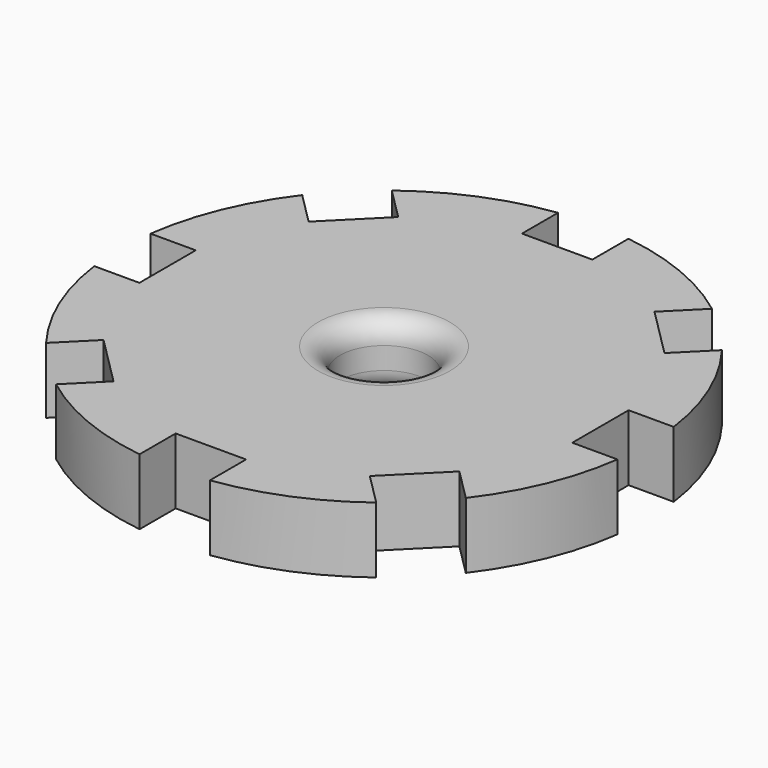
from build123d import *

# Parameters (mm, degrees)
SKETCH001_R        = 12
PAD001_DEPTH       = 3
SKETCH002_W        = 2.57
SKETCH002_H        = 3.2
POCKET_DEPTH       = 5
POLARPATTERN_COUNT = 8
SKETCH003_R        = 2
POCKET001_DEPTH    = 6
FILLET_R           = 1
FILLET002_R        = 1


with BuildPart() as part:
    # Sketch001 → Pad001 (new body)
    with BuildSketch(Plane.XY.offset(28.5)):
        Circle(SKETCH001_R)
    extrude(amount=PAD001_DEPTH)

    # Sketch002 (on Face3 of Pad001) → Pocket (cut)
    with BuildSketch(Plane.XY.offset(31.5)):
        with Locations((11.125, 0)):
            Rectangle(SKETCH002_W, SKETCH002_H)
    pocket = extrude(amount=-POCKET_DEPTH, mode=Mode.SUBTRACT)

    # PolarPattern: Pocket ×8 about axis
    polarpattern_axis = Axis((0, 0, 31.5), (0, 0, 1))
    for i in range(1, POLARPATTERN_COUNT):
        add(pocket.rotate(polarpattern_axis, i * 360 / POLARPATTERN_COUNT), mode=Mode.SUBTRACT)

    # Sketch003 (on Face4 of PolarPattern) → Pocket001 (cut)
    with BuildSketch(Plane.XY.offset(31.5)):
        Circle(SKETCH003_R)
    extrude(amount=-POCKET001_DEPTH, mode=Mode.SUBTRACT)

    # Fillet
    fillet_edges = [part.edges().sort_by_distance(p)[0] for p in [
        (-2, 0, 28.5),
    ]]
    fillet(fillet_edges, radius=FILLET_R)

    # Fillet002
    fillet002_edges = [part.edges().sort_by_distance(p)[0] for p in [
        (-2, 0, 31.5),
    ]]
    fillet(fillet002_edges, radius=FILLET002_R)


solid = part.part
